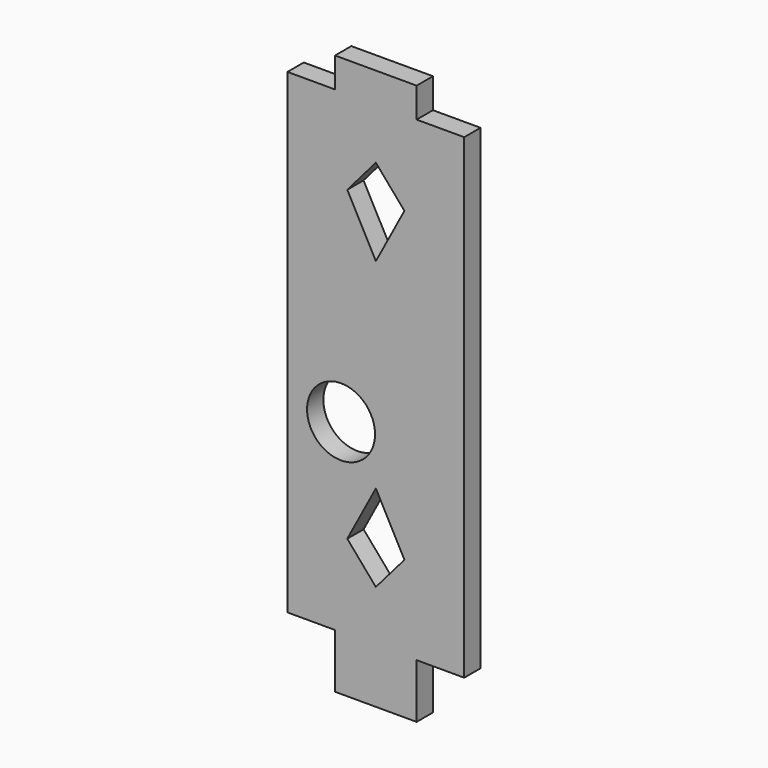
from build123d import *

# Parameters (mm, degrees)
F0_R     = 2.5
F1_DEPTH = 1.5


with BuildPart() as f1:
    # F0 (on Front) → F1 (new body)
    with BuildSketch(Plane.XZ):
        Polygon((-3, -2), (3, -2), (3, 2), (6.5, 2), (6.5, 37), (3, 37), (3, 39.2), (0, 39.2), (-3, 39.2), (-3, 37), (-6.5, 37), (-6.5, 2), (-3, 2), align=None)
        with Locations((-2.559623, 15.623519)):
            Circle(F0_R, mode=Mode.SUBTRACT)
        Polygon((2.101456, 8.201567), (0, 5.761865), (-2.101456, 8.201567), (0, 12.142628), align=None, mode=Mode.SUBTRACT)
        Polygon((-2.101456, 30.798433), (0, 33.238135), (2.101456, 30.798433), (0, 26.857372), align=None, mode=Mode.SUBTRACT)
    extrude(amount=F1_DEPTH)


solid = f1.part
